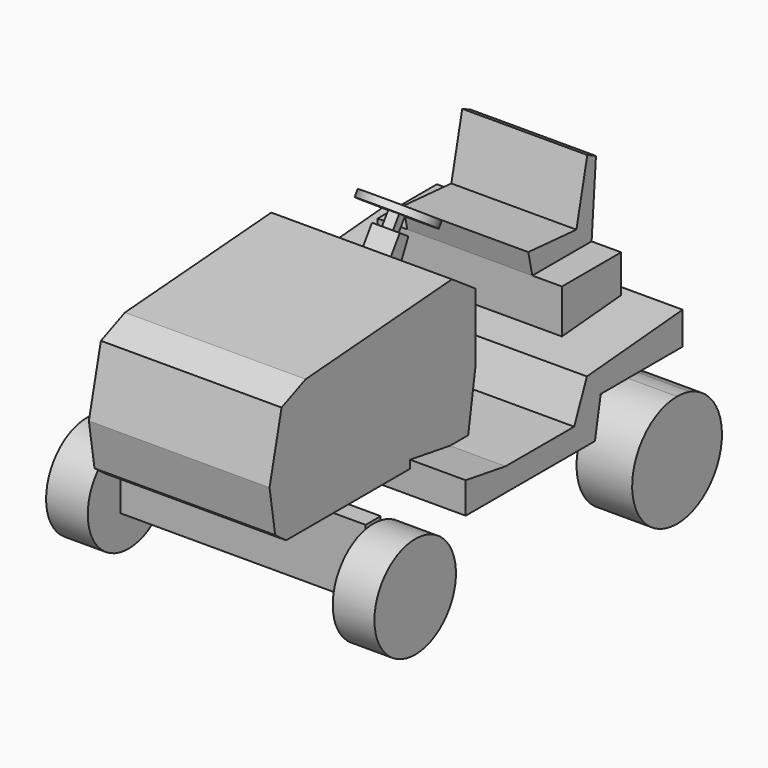
from build123d import *

# Parameters (mm, degrees)
F3_DEPTH  = 533.4
F5_DEPTH  = 330.2
F6_W      = 895.4597115517
F6_H      = 69.037437439
F7_DEPTH  = 254
F9_DEPTH  = 152.4
F11_W     = 951.6055583954
F11_H     = 58.4162473679
F12_DEPTH = 254
F13_R     = 205.1226496696
F14_DEPTH = 203.2
F16_DEPTH = 203.2
F17_W     = 673.4294295311
F17_H     = 270.8390951157
F18_DEPTH = 254
F20_DEPTH = 228.6
F22_DEPTH = 50.8
F23_W     = 39.8923233151
F23_H     = 31.9777131081
F24_DEPTH = 50.8
F25_R     = 128.4316644383
F26_DEPTH = 25.4


with BuildPart() as f3:
    # F2 (on face) → F3 (new body, symmetric)
    with BuildSketch(Plane.YZ):
        Polygon((580.4695487022, 438.6440515518), (954.6338915825, 438.6440515518), (954.6338915825, 557.7040910721), (517.2948241234, 520.7), (458.9797258377, 382.7587366104), (145.5359309912, 382.7587366104), (-36.6988368332, 411.9162857533), (-36.6988368332, 297.7158427238), (553.741812706, 297.7158427238), align=None)
    extrude(amount=F3_DEPTH, both=True)

    # F4 (on face) → F5 (join, symmetric)
    with BuildSketch(Plane.YZ):
        Polygon((145.5359309912, 382.7587366104), (228.7405356924, 382.7587366104), (262.6523375511, 594.7075978799), (262.6523375511, 840.8291935921), (154.4104069471, 914.7086143494), (-513.9405727386, 864.883005619), (-623.9005923271, 818.4935450554), (-678.880572319, 583.110332489), (-653.1087756157, 419.8883771896), (-603.2831072807, 382.7587366104), align=None)
    extrude(amount=F5_DEPTH, both=True)

    # F6 (on face) → F7 (join)
    with BuildSketch(Plane(origin=(0, 0, 382.7587366104), x_dir=(1, 0, 0), z_dir=(0, 0, -1))):
        with Locations((0, 352.2024452686)):
            Rectangle(F6_W, F6_H)
    extrude(amount=F7_DEPTH)

    # F8 (on face) → F9 (join)
    with BuildSketch(Plane(origin=(-447.7298557758, 0, 0), x_dir=(0, -1, 0), z_dir=(-1, 0, 0))):
        with BuildLine():
            ThreePointArc((350.7186164637, 0), (482.3983530717, 54.5435321866), (536.9418859482, 186.2232685089))
            ThreePointArc((536.9418859482, 186.2232685089), (219.0388818068, 317.9030048312), (350.7186164637, 0))
        make_face()
    extrude(amount=F9_DEPTH)

    # F10: F3 across face


with BuildPart() as f3_1:
    add(f3.part)
    add(f3.part.mirror(Plane.YZ))

    # F11 (on face) → F12 (join)
    with BuildSketch(Plane(origin=(0, 0, 438.6440515518), x_dir=(1, 0, 0), z_dir=(0, 0, -1))):
        with Locations((0, -776.2938737869)):
            Rectangle(F11_W, F11_H)
    extrude(amount=F12_DEPTH)

    # F13 (on face) → F14 (join)
    with BuildSketch(Plane(origin=(-475.8027791977, 0, 0), x_dir=(0, -1, 0), z_dir=(-1, 0, 0))):
        with Locations((-747.085750103, 205.1226496696)):
            Circle(F13_R)
    extrude(amount=F14_DEPTH)

    # F15 (on face) → F16 (join)
    with BuildSketch(Plane.YZ.offset(475.8027791977)):
        with BuildLine():
            ThreePointArc((747.085750103, 410.2452993393), (602.0421335466, 60.0790331133), (952.2083997726, 205.1226496696))
            ThreePointArc((952.2083997726, 205.1226496696), (911.4904289466, 327.7864299058), (805.5019974709, 401.751344043))
            ThreePointArc((805.5019974709, 401.751344043), (776.6010225612, 408.1107037497), (747.085750103, 410.2452993393))
        make_face()
    extrude(amount=F16_DEPTH)

    # F17 (on face) → F18 (join)
    with BuildSketch(Plane(origin=(0, 0, 438.6440515518), x_dir=(1, 0, 0), z_dir=(0, 0, -1))):
        with Locations((0, -784.2597365379)):
            Rectangle(F17_W, F17_H)
    extrude(amount=-F18_DEPTH)

    # F19 (on face) → F20 (join, symmetric)
    with BuildSketch(Plane.YZ):
        Polygon((630.3312778473, 775.7710305214), (648.8401889801, 692.6440515518), (919.6792840958, 692.6440515518), (939.593911171, 959.6104708672), (900.0770449638, 978.5098520279), (850.2513766289, 758.5897532463), align=None)
    extrude(amount=F20_DEPTH, both=True)

    # F21 (on face) → F22 (join, symmetric)
    with BuildSketch(Plane.YZ):
        Polygon((224.0662593073, 867.1657259695), (262.6523375511, 840.8291935921), (262.6523375511, 813.3391737938), (304.5946338236, 901.0808301074), (265.4504130698, 927.7983169367), align=None)
    extrude(amount=F22_DEPTH, both=True)

    # F23 (on face) → F24 (join)
    with BuildSketch(Plane(origin=(0, 516.3670714777, 756.5377224693), x_dir=(1, 0, 0), z_dir=(0, 0.5637436051, 0.8259498458))):
        with Locations((0, -278.8930535316)):
            Rectangle(F23_W, F23_H)
    extrude(amount=F24_DEPTH)

    # F25 (on face) → F26 (join)
    with BuildSketch(Plane(origin=(0, 545.005246616, 798.4959746344), x_dir=(1, 0, 0), z_dir=(0, 0.5637436051, 0.8259498458))):
        with Locations((0, -278.8930535316)):
            Circle(F25_R)
    extrude(amount=F26_DEPTH)


solid = f3_1.part
